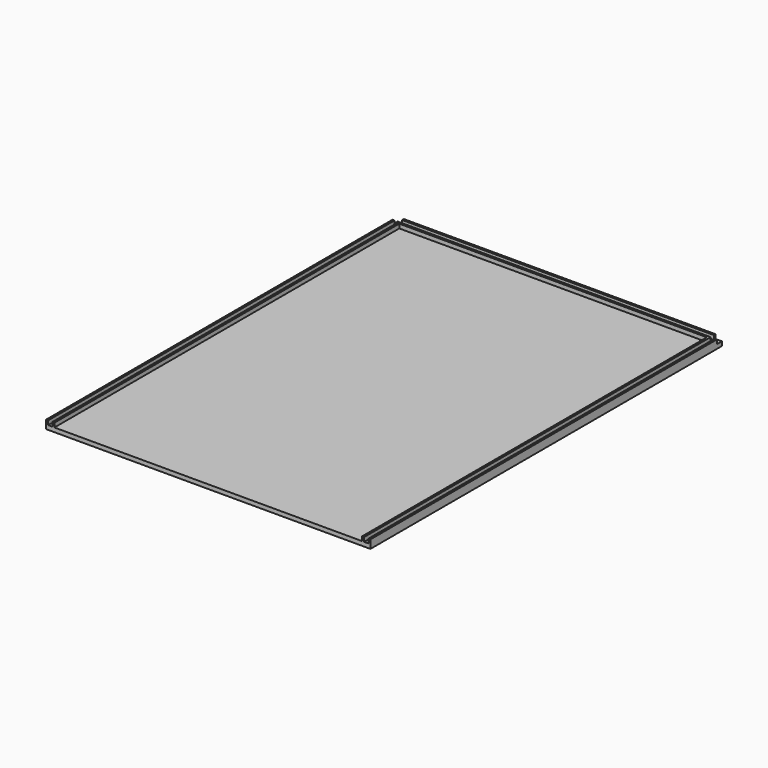
from build123d import *

# Parameters (mm, degrees)
F0_W     = 147
F0_H     = 206
F0_W_2   = 2
F0_H_2   = 1
F0_W_3   = 1
F1_DEPTH = 2
F2_DEPTH = 4


with BuildPart() as f1:
    # F0 (on Top) → F1 (new body)
    with BuildSketch(Plane.XY):
        with Locations((0, -2)):
            Rectangle(F0_W, F0_H)
        Polygon((77.5, 102), (77.5, 104), (76.5, 104), (74.5, 104), (73.5, 104), (-73.5, 104), (-74.5, 104), (-76.5, 104), (-77.5, 104), (-77.5, 102), (-76.5, 102), (-74.5, 102), (-73.5, 102), (73.5, 102), (74.5, 102), (76.5, 102), align=None)
        with Locations((75.5, -2)):
            Rectangle(F0_W_2, F0_H)
        with Locations((-75.5, -2)):
            Rectangle(F0_W_2, F0_H)
        with Locations((0, 101.5)):
            Rectangle(F0_W, F0_H_2)
        with Locations((74, -2)):
            Rectangle(F0_W_3, F0_H)
        with Locations((-74, -2)):
            Rectangle(F0_W_3, F0_H)
        with Locations((0, 104.5)):
            Rectangle(F0_W, F0_H_2)
        with Locations((-77, -2)):
            Rectangle(F0_W_3, F0_H)
        with Locations((77, -2)):
            Rectangle(F0_W_3, F0_H)
        with Locations((-74, 101.5)):
            Rectangle(F0_W_3, F0_H_2)
        with Locations((75.5, 101.5)):
            Rectangle(F0_W_2, F0_H_2)
        with Locations((74, 101.5)):
            Rectangle(F0_W_3, F0_H_2)
        with Locations((77, 101.5)):
            Rectangle(F0_W_3, F0_H_2)
        with Locations((-77, 101.5)):
            Rectangle(F0_W_3, F0_H_2)
        with Locations((-74, 104.5)):
            Rectangle(F0_W_3, F0_H_2)
        with Locations((74, 104.5)):
            Rectangle(F0_W_3, F0_H_2)
        with Locations((-75.5, 101.5)):
            Rectangle(F0_W_2, F0_H_2)
        with Locations((-75.5, 104.5)):
            Rectangle(F0_W_2, F0_H_2)
        with Locations((-77, 104.5)):
            Rectangle(F0_W_3, F0_H_2)
        with Locations((77, 104.5)):
            Rectangle(F0_W_3, F0_H_2)
        with Locations((75.5, 104.5)):
            Rectangle(F0_W_2, F0_H_2)
    extrude(amount=F1_DEPTH)

    # F0 (on Top) → F2 (join)
    with BuildSketch(Plane.XY):
        with Locations((77, -2)):
            Rectangle(F0_W_3, F0_H)
        with Locations((77, 101.5)):
            Rectangle(F0_W_3, F0_H_2)
        with Locations((-77, -2)):
            Rectangle(F0_W_3, F0_H)
        with Locations((-77, 101.5)):
            Rectangle(F0_W_3, F0_H_2)
        with Locations((-74, 104.5)):
            Rectangle(F0_W_3, F0_H_2)
        with Locations((74, 104.5)):
            Rectangle(F0_W_3, F0_H_2)
        with Locations((0, 104.5)):
            Rectangle(F0_W, F0_H_2)
        with Locations((0, 101.5)):
            Rectangle(F0_W, F0_H_2)
        with Locations((-74, -2)):
            Rectangle(F0_W_3, F0_H)
        with Locations((74, -2)):
            Rectangle(F0_W_3, F0_H)
        with Locations((-74, 101.5)):
            Rectangle(F0_W_3, F0_H_2)
        with Locations((74, 101.5)):
            Rectangle(F0_W_3, F0_H_2)
    extrude(amount=F2_DEPTH)


solid = f1.part
